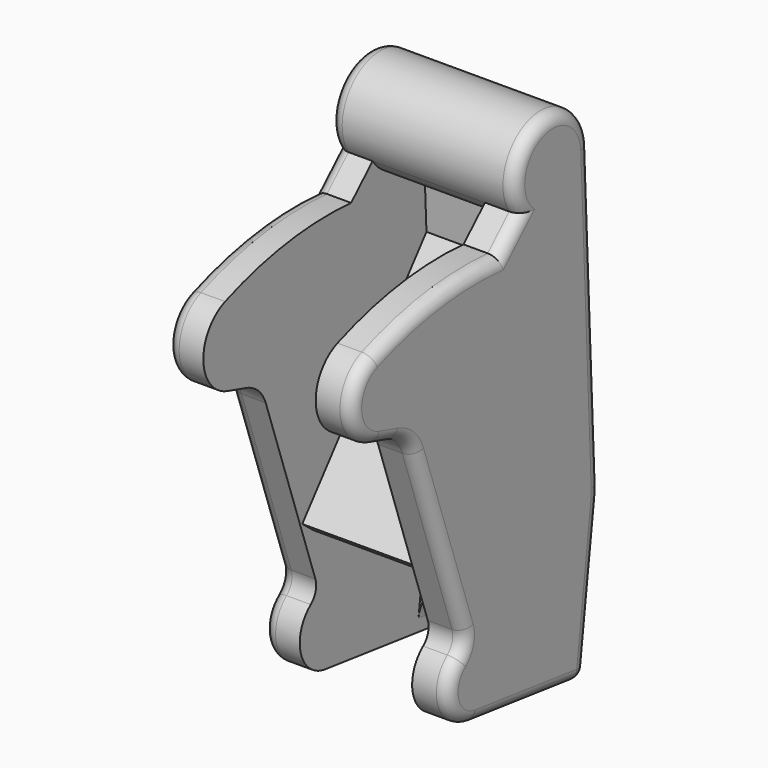
from build123d import *

# Parameters (mm, degrees)
PAD004_DEPTH            = 7.65
POCKET003_DEPTH         = 4.65
POCKET004_DEPTH         = 2
FILLET007_R             = 1
FILLET008_R             = 1
BODY003_PLACEMENT_ANGLE = 289


with BuildPart() as part:
    # Sketch009 → Pad004 (new body, symmetric)
    with BuildSketch(Plane.YZ):
        with BuildLine():
            ThreePointArc((-2.8284271247, -1), (-0.1735950846, -2.9949732464), (2.6939497909, -1.3200888318))
            Line((2.6939497909, -1.3200888318), (7.8, 9.1))
            Line((7.8, 9.1), (-3.7, 14.7352281014))
            ThreePointArc((-3.7, 14.7352281014), (-4.158961759, 14.9368094594), (-4.6331484619, 15.0993760945))
            Line((-4.6331484619, 15.0993760945), (-28.6904310189, 22.2388309237))
            ThreePointArc((-28.6904310189, 22.2388309237), (-33.6993372116, 18.5718979166), (-28.8290152057, 14.7228067922))
            Line((-27.5290152057, 11.9228067922), (-28.8290152057, 14.7228067922))
            ThreePointArc((-27.5290152057, 11.9228067922), (-29.4749197629, 5.5883007232), (-29.9826934773, -1.0188679245))
            ThreePointArc((-29.9826934773, -1.0188679245), (-27.4803397166, -4.255402597), (-23.6176804166, -2.9075175272))
            Line((-23.6176804166, -2.9075175272), (-22.4775697078, -1.2792706909))
            ThreePointArc((-20.0201135749, 0), (-21.4053594146, -0.3389675005), (-22.4775697078, -1.2792706909))
            Line((-4.2426406871, 0), (-20.0201135749, 0))
            ThreePointArc((-2.8284271247, -1), (-3.3766152833, -0.2752551286), (-4.2426406871, 0))
        make_face()
    extrude(amount=PAD004_DEPTH, both=True)

    # Sketch010 → Pocket003 (cut, symmetric)
    with BuildSketch(Plane.YZ):
        with BuildLine():
            Line((6.9199407788, 7.3040334727), (-5.8060355253, 13.5400142802))
            ThreePointArc((-5.8060355253, 13.5400142802), (-11.1364622888, 12.5033421393), (-11.5881769744, 7.0918642957))
            Line((-11.5881769744, 7.0918642957), (-7.7326639328, 1.0024084327))
            Line((-9, 0.2), (-7.7326639328, 1.0024084327))
            Line((-9, 0.2), (-20, 17.5735670895))
            Line((-24.6418524264, 18.9511248267), (-20, 17.5735670895))
            ThreePointArc((-24.6418524264, 18.9511248267), (-25.4821110434, 18.8237971917), (-25.9209782539, 18.0960318164))
            ThreePointArc((-28.8290152057, 14.7228067922), (-26.8461376765, 15.9534931036), (-25.9209782539, 18.0960318164))
            Line((-28.8290152057, 14.7228067922), (-34.6400816793, 13.2289840317))
            Line((-34.6400816793, 13.2289840317), (-31.0800592212, -4.6959665273))
            Line((-31.0800592212, -4.6959665273), (6.9199407788, -4.6959665273))
            Line((6.9199407788, -4.6959665273), (6.9199407788, 7.3040334727))
        make_face()
    extrude(amount=POCKET003_DEPTH, both=True, mode=Mode.SUBTRACT)

    # Sketch011 (on Face6 of Pocket003) → Pocket004 (cut)
    with BuildSketch(Plane(origin=(0, 5.1060502091, 10.4200888318), x_dir=(0, -0.8979832636, 0.4400296106), z_dir=(0, 0.4400296106, 0.8979832636))):
        with BuildLine():
            Line((-3, 4.65), (-2, 4.65))
            ThreePointArc((1.5, 1.15), (0.4748737342, 3.6248737342), (-2, 4.65))
            Line((1.5, 1.15), (1.5, -1.15))
            ThreePointArc((-2, -4.65), (0.4748737342, -3.6248737342), (1.5, -1.15))
            Line((-2, -4.65), (-3, -4.65))
            Line((-3, -4.65), (-3, 4.65))
        make_face()
    extrude(amount=-POCKET004_DEPTH, mode=Mode.SUBTRACT)

    # Fillet007
    fillet007_edges = [part.edges().sort_by_distance(p)[0] for p in [
        (-6.15, 7.8, 9.1),
        (6.15, 7.8, 9.1),
    ]]
    fillet(fillet007_edges, radius=FILLET007_R)

    # Fillet008
    fillet008_edges = [part.edges().sort_by_distance(p)[0] for p in [
        (7.65, -16.66179, 18.669104),
        (-7.65, -16.66179, 18.669104),
        (-7.65, -28.179015, 13.322807),
        (7.65, -28.179015, 13.322807),
    ]]
    fillet(fillet008_edges, radius=FILLET008_R)


with BuildPart() as part_1:
    # Body003 placement: moved
    add(part.part.moved(Location((0, 15.2, 5.2))).rotate(Axis((0, 15.2, 5.2), (1, 0, 0)), BODY003_PLACEMENT_ANGLE))


solid = part_1.part
